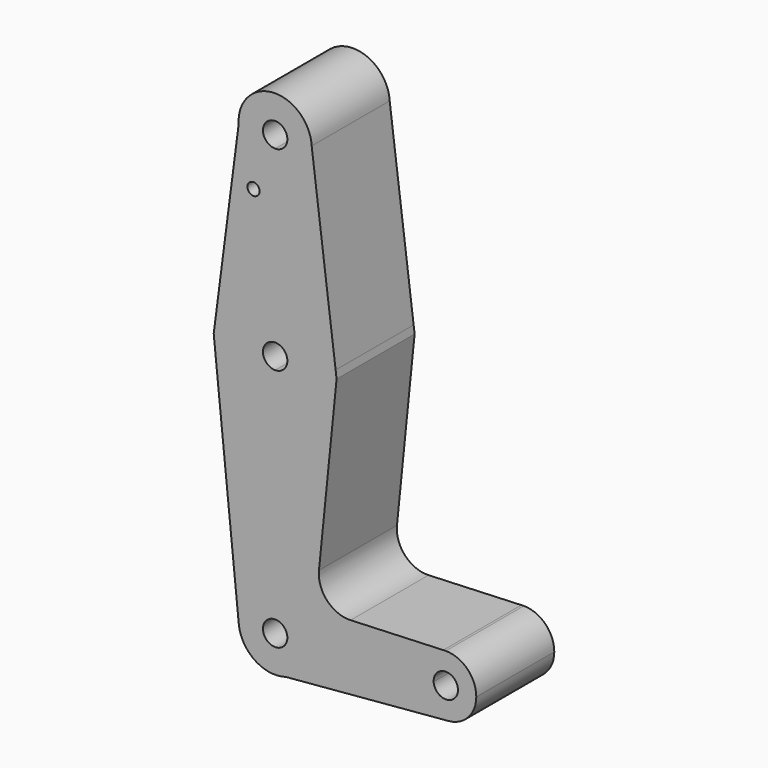
from build123d import *

# Parameters (mm, degrees)
F0_R     = 1.5875
F1_DEPTH = 25.4
F2_DEPTH = 3.048


with BuildPart() as f1:
    # F0 (on Front) → F1 (new body)
    with BuildSketch(Plane.XZ):
        with BuildLine():
            ThreePointArc((-9.5041837488, 50.1706223166), (-6.5088709684, 43.8458484545), (0, 41.275))
            ThreePointArc((0, 41.275), (6.7351920908, 44.0648079092), (9.525, 50.8))
            ThreePointArc((9.525, 50.8), (9.521253976, 51.0671099484), (9.5100188505, 51.3340097971))
            ThreePointArc((9.5100188505, 51.3340097971), (-0.5817010569, 60.307220881), (-9.5041837488, 50.1706223166))
        make_face()
        with BuildLine():
            ThreePointArc((3.175, 50.8), (2.2450640303, 48.5549359697), (0, 47.625))
            ThreePointArc((0, 47.625), (-2.2450640303, 53.0450640303), (3.175, 50.8))
        make_face(mode=Mode.SUBTRACT)
        with BuildLine():
            ThreePointArc((9.525, 50.8), (6.7351920908, 44.0648079092), (0, 41.275))
            Line((0, 41.275), (0, 15.875))
            ThreePointArc((0, 15.875), (10.4975940257, 11.9086583909), (15.7495762115, 1.9916009035))
            Line((15.7495762115, 1.9916009035), (9.5100188505, 51.3340097971))
            ThreePointArc((9.5100188505, 51.3340097971), (9.521253976, 51.0671099484), (9.525, 50.8))
        make_face()
        with BuildLine():
            Line((0, 15.875), (0, 41.275))
            ThreePointArc((0, 41.275), (-6.5088709684, 43.8458484545), (-9.5041837488, 50.1706223166))
            Line((-9.5041837488, 50.1706223166), (-15.7432755212, 2.0408088745))
            ThreePointArc((-15.7432755212, 2.0408088745), (-10.4789738075, 11.9250464545), (0, 15.875))
        make_face()
        with Locations((-5.6346100755, 36.5252)):
            Circle(F0_R, mode=Mode.SUBTRACT)
        with BuildLine():
            ThreePointArc((15.7495762115, 1.9916009035), (10.4975940257, 11.9086583909), (0, 15.875))
            Line((0, 15.875), (0, 3.175))
            ThreePointArc((0, 3.175), (2.2450640303, 2.2450640303), (3.175, 0))
            ThreePointArc((3.175, 0), (2.2450640303, -2.2450640303), (0, -3.175))
            Line((0, -3.175), (0, -15.875))
            ThreePointArc((0, -15.875), (11.2253201513, -11.2253201513), (15.875, 0))
            ThreePointArc((15.875, 0), (15.8436130248, 0.9977731813), (15.7495762115, 1.9916009035))
        make_face()
        with BuildLine():
            Line((0, 3.175), (0, 15.875))
            ThreePointArc((0, 15.875), (-10.4789738075, 11.9250464545), (-15.7432755212, 2.0408088745))
            ThreePointArc((-15.7432755212, 2.0408088745), (-11.9250464545, -10.4789738075), (0, -15.875))
            Line((0, -15.875), (0, -3.175))
            ThreePointArc((0, -3.175), (-3.175, 0), (0, 3.175))
        make_face()
        with BuildLine():
            Line((16.0014226121, 0), (15.7495762115, 1.9916009035))
            ThreePointArc((15.7495762115, 1.9916009035), (15.8436130248, 0.9977731813), (15.875, 0))
            ThreePointArc((15.875, 0), (11.2253201513, -11.2253201513), (0, -15.875))
            Line((0, -15.875), (0, -53.975))
            ThreePointArc((0, -53.975), (6.5459196054, -56.5807109094), (9.5103643283, -62.9721786835))
            Line((9.5103643283, -62.9721786835), (36.524696393, -61.4728943424))
            ThreePointArc((36.524696393, -61.4728943424), (38.4649824546, -55.8192661853), (43.7992490533, -53.1222639249))
            Line((43.7992490533, -53.1222639249), (19.6448322696, -54.1140756713))
            ThreePointArc((19.6448322696, -54.1140756713), (13.5313560579, -51.6215119156), (11.4088815924, -45.3699067129))
            Line((11.4088815924, -45.3699067129), (16.0014226121, 0))
        make_face()
        with BuildLine():
            ThreePointArc((0, -15.875), (-11.9250464545, -10.4789738075), (-15.7432755212, 2.0408088745))
            Line((-15.7432755212, 2.0408088745), (-16.0078265957, 0))
            Line((-16.0078265957, 0), (-9.4764790831, -64.4601922661))
            ThreePointArc((-9.4764790831, -64.4601922661), (-7.0665216456, -57.113303136), (0, -53.975))
            Line((0, -53.975), (0, -15.875))
        make_face()
        with BuildLine():
            Line((0, -60.325), (0, -53.975))
            ThreePointArc((0, -53.975), (-7.0665216456, -57.113303136), (-9.4764790831, -64.4601922661))
            ThreePointArc((-9.4764790831, -64.4601922661), (-5.2789041648, -71.4283539161), (2.7690825685, -72.6136055833))
            ThreePointArc((2.7690825685, -72.6136055833), (7.6518343051, -69.1723061243), (9.525, -63.5))
            ThreePointArc((9.525, -63.5), (9.5213403791, -63.2359879051), (9.5103643283, -62.9721786835))
            Line((9.5103643283, -62.9721786835), (3.1701214428, -63.3240595612))
            ThreePointArc((3.1701214428, -63.3240595612), (3.1737801264, -63.4119959684), (3.175, -63.5))
            ThreePointArc((3.175, -63.5), (-2.2450640303, -65.7450640303), (0, -60.325))
        make_face()
        with BuildLine():
            Line((36.524696393, -61.4728943424), (9.5103643283, -62.9721786835))
            ThreePointArc((9.5103643283, -62.9721786835), (9.5213403791, -63.2359879051), (9.525, -63.5))
            ThreePointArc((9.525, -63.5), (7.6518343051, -69.1723061243), (2.7690825685, -72.6136055833))
            Line((2.7690825685, -72.6136055833), (45.1355258809, -68.9408849557))
            ThreePointArc((45.1355258809, -68.9408849557), (39.249392696, -67.0295080304), (36.524696393, -61.4728943424))
        make_face()
        with BuildLine():
            Line((44.45, -53.0955432453), (43.7992490533, -53.1222639249))
            ThreePointArc((43.7992490533, -53.1222639249), (38.4649824546, -55.8192661853), (36.524696393, -61.4728943424))
            ThreePointArc((36.524696393, -61.4728943424), (39.249392696, -67.0295080304), (45.1355258809, -68.9408849557))
            ThreePointArc((45.1355258809, -68.9408849557), (50.30001145, -66.3978612557), (52.3875, -61.0330432453))
            ThreePointArc((52.3875, -61.0330432453), (50.0626600757, -55.4203831696), (44.45, -53.0955432453))
        make_face()
        with BuildLine():
            ThreePointArc((47.625, -61.0330432453), (44.5380040316, -64.2068233716), (41.2798785572, -61.2089836841))
            ThreePointArc((41.2798785572, -61.2089836841), (44.3619959684, -57.8592631189), (47.625, -61.0330432453))
        make_face(mode=Mode.SUBTRACT)
        with BuildLine():
            ThreePointArc((44.45, -53.0955432453), (44.1243503457, -53.1022262285), (43.7992490533, -53.1222639249))
            Line((43.7992490533, -53.1222639249), (44.45, -53.0955432453))
        make_face()
        with BuildLine():
            ThreePointArc((9.5103643283, -62.9721786835), (6.5459196054, -56.5807109094), (0, -53.975))
            Line((0, -53.975), (0, -60.325))
            ThreePointArc((0, -60.325), (2.1819732018, -61.1935703031), (3.1701214428, -63.3240595612))
            Line((3.1701214428, -63.3240595612), (9.5103643283, -62.9721786835))
        make_face()
    extrude(amount=F1_DEPTH)

    # F0 (on Front) → F2 (join)
    with BuildSketch(Plane.XZ):
        with BuildLine():
            ThreePointArc((-9.5041837488, 50.1706223166), (-6.5088709684, 43.8458484545), (0, 41.275))
            ThreePointArc((0, 41.275), (6.7351920908, 44.0648079092), (9.525, 50.8))
            ThreePointArc((9.525, 50.8), (9.521253976, 51.0671099484), (9.5100188505, 51.3340097971))
            ThreePointArc((9.5100188505, 51.3340097971), (-0.5817010569, 60.307220881), (-9.5041837488, 50.1706223166))
        make_face()
        with BuildLine():
            ThreePointArc((3.175, 50.8), (2.2450640303, 48.5549359697), (0, 47.625))
            ThreePointArc((0, 47.625), (-2.2450640303, 53.0450640303), (3.175, 50.8))
        make_face(mode=Mode.SUBTRACT)
        with BuildLine():
            ThreePointArc((9.525, 50.8), (6.7351920908, 44.0648079092), (0, 41.275))
            Line((0, 41.275), (0, 15.875))
            ThreePointArc((0, 15.875), (10.4975940257, 11.9086583909), (15.7495762115, 1.9916009035))
            Line((15.7495762115, 1.9916009035), (9.5100188505, 51.3340097971))
            ThreePointArc((9.5100188505, 51.3340097971), (9.521253976, 51.0671099484), (9.525, 50.8))
        make_face()
        with BuildLine():
            Line((0, 15.875), (0, 41.275))
            ThreePointArc((0, 41.275), (-6.5088709684, 43.8458484545), (-9.5041837488, 50.1706223166))
            Line((-9.5041837488, 50.1706223166), (-15.7432755212, 2.0408088745))
            ThreePointArc((-15.7432755212, 2.0408088745), (-10.4789738075, 11.9250464545), (0, 15.875))
        make_face()
        with Locations((-5.6346100755, 36.5252)):
            Circle(F0_R, mode=Mode.SUBTRACT)
        with BuildLine():
            ThreePointArc((15.7495762115, 1.9916009035), (10.4975940257, 11.9086583909), (0, 15.875))
            Line((0, 15.875), (0, 3.175))
            ThreePointArc((0, 3.175), (2.2450640303, 2.2450640303), (3.175, 0))
            ThreePointArc((3.175, 0), (2.2450640303, -2.2450640303), (0, -3.175))
            Line((0, -3.175), (0, -15.875))
            ThreePointArc((0, -15.875), (11.2253201513, -11.2253201513), (15.875, 0))
            ThreePointArc((15.875, 0), (15.8436130248, 0.9977731813), (15.7495762115, 1.9916009035))
        make_face()
        with BuildLine():
            Line((0, 3.175), (0, 15.875))
            ThreePointArc((0, 15.875), (-10.4789738075, 11.9250464545), (-15.7432755212, 2.0408088745))
            ThreePointArc((-15.7432755212, 2.0408088745), (-11.9250464545, -10.4789738075), (0, -15.875))
            Line((0, -15.875), (0, -3.175))
            ThreePointArc((0, -3.175), (-3.175, 0), (0, 3.175))
        make_face()
        with BuildLine():
            Line((16.0014226121, 0), (15.7495762115, 1.9916009035))
            ThreePointArc((15.7495762115, 1.9916009035), (15.8436130248, 0.9977731813), (15.875, 0))
            ThreePointArc((15.875, 0), (11.2253201513, -11.2253201513), (0, -15.875))
            Line((0, -15.875), (0, -53.975))
            ThreePointArc((0, -53.975), (6.5459196054, -56.5807109094), (9.5103643283, -62.9721786835))
            Line((9.5103643283, -62.9721786835), (36.524696393, -61.4728943424))
            ThreePointArc((36.524696393, -61.4728943424), (38.4649824546, -55.8192661853), (43.7992490533, -53.1222639249))
            Line((43.7992490533, -53.1222639249), (19.6448322696, -54.1140756713))
            ThreePointArc((19.6448322696, -54.1140756713), (13.5313560579, -51.6215119156), (11.4088815924, -45.3699067129))
            Line((11.4088815924, -45.3699067129), (16.0014226121, 0))
        make_face()
        with BuildLine():
            ThreePointArc((0, -15.875), (-11.9250464545, -10.4789738075), (-15.7432755212, 2.0408088745))
            Line((-15.7432755212, 2.0408088745), (-16.0078265957, 0))
            Line((-16.0078265957, 0), (-9.4764790831, -64.4601922661))
            ThreePointArc((-9.4764790831, -64.4601922661), (-7.0665216456, -57.113303136), (0, -53.975))
            Line((0, -53.975), (0, -15.875))
        make_face()
        with BuildLine():
            Line((0, -60.325), (0, -53.975))
            ThreePointArc((0, -53.975), (-7.0665216456, -57.113303136), (-9.4764790831, -64.4601922661))
            ThreePointArc((-9.4764790831, -64.4601922661), (-5.2789041648, -71.4283539161), (2.7690825685, -72.6136055833))
            ThreePointArc((2.7690825685, -72.6136055833), (7.6518343051, -69.1723061243), (9.525, -63.5))
            ThreePointArc((9.525, -63.5), (9.5213403791, -63.2359879051), (9.5103643283, -62.9721786835))
            Line((9.5103643283, -62.9721786835), (3.1701214428, -63.3240595612))
            ThreePointArc((3.1701214428, -63.3240595612), (3.1737801264, -63.4119959684), (3.175, -63.5))
            ThreePointArc((3.175, -63.5), (-2.2450640303, -65.7450640303), (0, -60.325))
        make_face()
        with BuildLine():
            Line((36.524696393, -61.4728943424), (9.5103643283, -62.9721786835))
            ThreePointArc((9.5103643283, -62.9721786835), (9.5213403791, -63.2359879051), (9.525, -63.5))
            ThreePointArc((9.525, -63.5), (7.6518343051, -69.1723061243), (2.7690825685, -72.6136055833))
            Line((2.7690825685, -72.6136055833), (45.1355258809, -68.9408849557))
            ThreePointArc((45.1355258809, -68.9408849557), (39.249392696, -67.0295080304), (36.524696393, -61.4728943424))
        make_face()
        with BuildLine():
            Line((44.45, -53.0955432453), (43.7992490533, -53.1222639249))
            ThreePointArc((43.7992490533, -53.1222639249), (38.4649824546, -55.8192661853), (36.524696393, -61.4728943424))
            ThreePointArc((36.524696393, -61.4728943424), (39.249392696, -67.0295080304), (45.1355258809, -68.9408849557))
            ThreePointArc((45.1355258809, -68.9408849557), (50.30001145, -66.3978612557), (52.3875, -61.0330432453))
            ThreePointArc((52.3875, -61.0330432453), (50.0626600757, -55.4203831696), (44.45, -53.0955432453))
        make_face()
        with BuildLine():
            ThreePointArc((47.625, -61.0330432453), (44.5380040316, -64.2068233716), (41.2798785572, -61.2089836841))
            ThreePointArc((41.2798785572, -61.2089836841), (44.3619959684, -57.8592631189), (47.625, -61.0330432453))
        make_face(mode=Mode.SUBTRACT)
        with BuildLine():
            ThreePointArc((44.45, -53.0955432453), (44.1243503457, -53.1022262285), (43.7992490533, -53.1222639249))
            Line((43.7992490533, -53.1222639249), (44.45, -53.0955432453))
        make_face()
    extrude(amount=F2_DEPTH)


solid = f1.part
